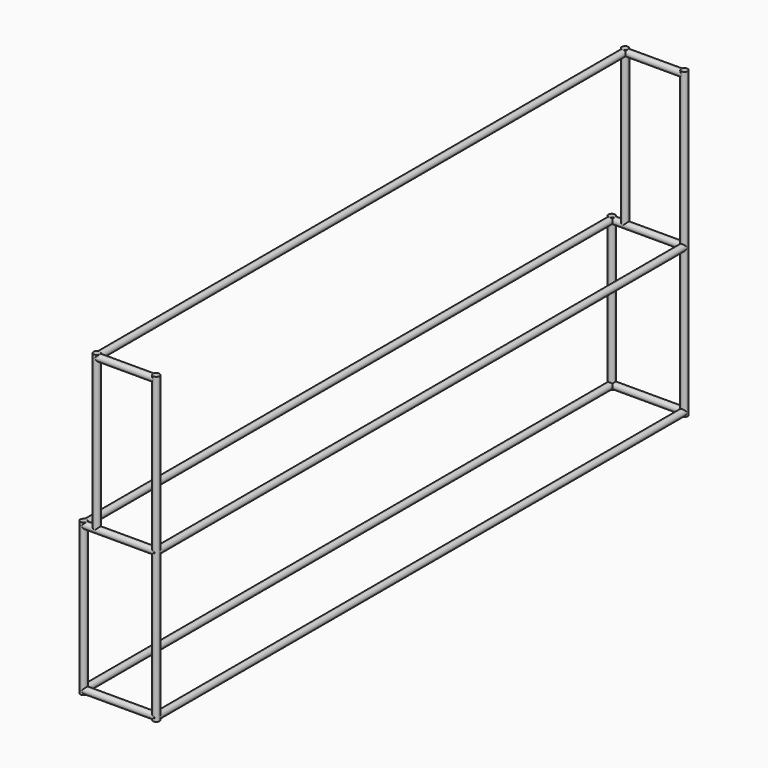
from build123d import *

# Parameters (mm, degrees)
F1_R           = 25
F2_DEPTH       = 2300
F3_R           = 25
F4_DEPTH       = 1150
F5_R           = 25
F6_DEPTH       = 2500
F6_DEPTH_BACK  = 2500
F7_R           = 25
F8_DEPTH       = 280
F8_DEPTH_BACK  = 280
F10_R          = 25
F11_DEPTH      = 1175
F12_R          = 25
F13_DEPTH      = 275
F13_DEPTH_BACK = 175


with BuildPart() as f2:
    # F1 (on Top) → F2 (new body)
    with BuildSketch(Plane.XY):
        with Locations((275, 2500)):
            Circle(F1_R)
    extrude(amount=F2_DEPTH)


with BuildPart() as f2b:
    # F1 (on Top) → F2, piece 2 (new body)
    with BuildSketch(Plane.XY):
        with Locations((275, -2500)):
            Circle(F1_R)
    extrude(amount=F2_DEPTH)


with BuildPart() as f4:
    # F3 (on Top) → F4 (new body)
    with BuildSketch(Plane.XY):
        with Locations((-275, -2500)):
            Circle(F3_R)
    extrude(amount=F4_DEPTH)


with BuildPart() as f4b:
    # F3 (on Top) → F4, piece 2 (new body)
    with BuildSketch(Plane.XY):
        with Locations((-275, 2500)):
            Circle(F3_R)
    extrude(amount=F4_DEPTH)


with BuildPart() as f6:
    # F5 (on Front) → F6 (new body, two sides)
    with BuildSketch(Plane.XZ) as f6_sk:
        with Locations((275, 25)):
            Circle(F5_R)
    extrude(amount=F6_DEPTH)
    extrude(f6_sk.sketch, amount=-F6_DEPTH_BACK)


with BuildPart() as f6b:
    # F5 (on Front) → F6, piece 2 (new body, two sides)
    with BuildSketch(Plane.XZ) as f6_2_sk:
        with Locations((275, 1125)):
            Circle(F5_R)
    extrude(amount=F6_DEPTH)
    extrude(f6_2_sk.sketch, amount=-F6_DEPTH_BACK)


with BuildPart() as f6c:
    # F5 (on Front) → F6, piece 3 (new body, two sides)
    with BuildSketch(Plane.XZ) as f6_3_sk:
        with Locations((-275, 1125)):
            Circle(F5_R)
    extrude(amount=F6_DEPTH)
    extrude(f6_3_sk.sketch, amount=-F6_DEPTH_BACK)


with BuildPart() as f6d:
    # F5 (on Front) → F6, piece 4 (new body, two sides)
    with BuildSketch(Plane.XZ) as f6_4_sk:
        with Locations((-275, 25)):
            Circle(F5_R)
    extrude(amount=F6_DEPTH)
    extrude(f6_4_sk.sketch, amount=-F6_DEPTH_BACK)


with BuildPart() as f6e:
    # F5 (on Front) → F6, piece 5 (new body, two sides)
    with BuildSketch(Plane.XZ) as f6_5_sk:
        with Locations((-175, 2275)):
            Circle(F5_R)
    extrude(amount=F6_DEPTH)
    extrude(f6_5_sk.sketch, amount=-F6_DEPTH_BACK)


with BuildPart() as f8:
    # F7 (on face) → F8 (new body, two sides)
    with BuildSketch(Plane.YZ) as f8_sk:
        with Locations((2500, 25)):
            Circle(F7_R)
    extrude(amount=F8_DEPTH)
    extrude(f8_sk.sketch, amount=-F8_DEPTH_BACK)


with BuildPart() as f8b:
    # F7 (on face) → F8, piece 2 (new body, two sides)
    with BuildSketch(Plane.YZ) as f8_2_sk:
        with Locations((-2500, 25)):
            Circle(F7_R)
    extrude(amount=F8_DEPTH)
    extrude(f8_2_sk.sketch, amount=-F8_DEPTH_BACK)


with BuildPart() as f8c:
    # F7 (on face) → F8, piece 3 (new body, two sides)
    with BuildSketch(Plane.YZ) as f8_3_sk:
        with Locations((-2500, 1125)):
            Circle(F7_R)
    extrude(amount=F8_DEPTH)
    extrude(f8_3_sk.sketch, amount=-F8_DEPTH_BACK)

    # F10 (on offset) → F11 (join, through all)
    with BuildSketch(Plane.XY.offset(1125)):
        with Locations((-175, -2500)):
            Circle(F10_R)
        with Locations((-175, 2500)):
            Circle(F10_R)
    extrude(amount=F11_DEPTH)


with BuildPart() as f8d:
    # F7 (on face) → F8, piece 4 (new body, two sides)
    with BuildSketch(Plane.YZ) as f8_4_sk:
        with Locations((2500, 1125)):
            Circle(F7_R)
    extrude(amount=F8_DEPTH)
    extrude(f8_4_sk.sketch, amount=-F8_DEPTH_BACK)


with BuildPart() as f13:
    # F12 (on Right) → F13 (new body, two sides)
    with BuildSketch(Plane.YZ) as f13_sk:
        with Locations((-2500, 2275)):
            Circle(F12_R)
    extrude(amount=F13_DEPTH)
    extrude(f13_sk.sketch, amount=-F13_DEPTH_BACK)


with BuildPart() as f13b:
    # F12 (on Right) → F13, piece 2 (new body, two sides)
    with BuildSketch(Plane.YZ) as f13_2_sk:
        with Locations((2500, 2275)):
            Circle(F12_R)
    extrude(amount=F13_DEPTH)
    extrude(f13_2_sk.sketch, amount=-F13_DEPTH_BACK)


solid = Compound([f2.part, f2b.part, f4.part, f4b.part, f6.part, f6b.part, f6c.part, f6d.part, f6e.part, f8.part, f8b.part, f8c.part, f8d.part, f13.part, f13b.part])
